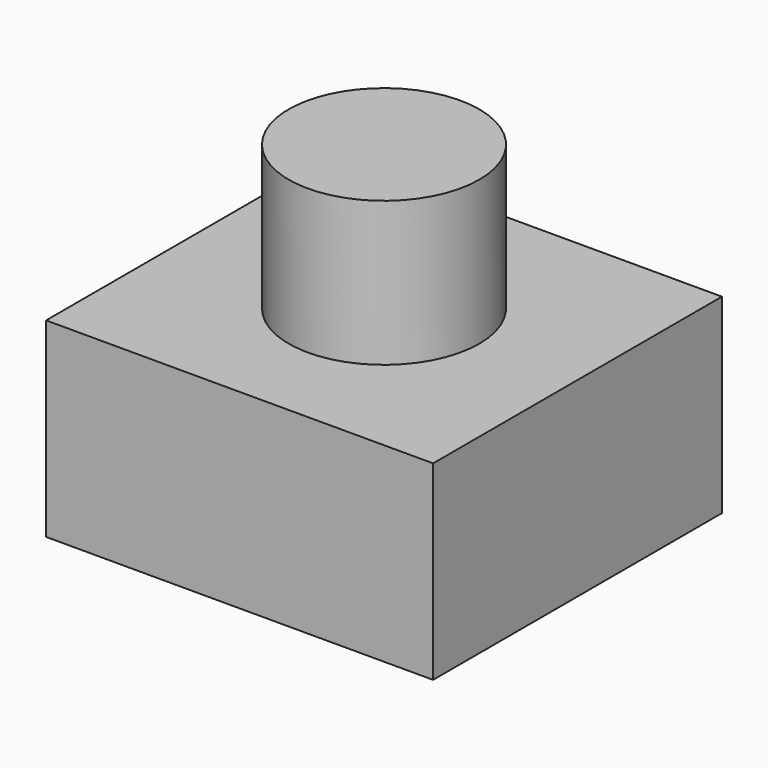
from build123d import *

# Parameters (mm, degrees)
BOX010_W          = 13.4
BOX010_H          = 12.5
BOX010_DEPTH      = 6.6
CYLINDER002_R     = 3.3
CYLINDER002_DEPTH = 5


with BuildPart() as rotary_base:
    # Box010 → Box010 (new body)
    with BuildSketch(Plane(origin=(-6.7, -6.25, -11.6), x_dir=(1, 0, 0), z_dir=(0, 0, 1))):
        with Locations((6.7, 6.25)):
            Rectangle(BOX010_W, BOX010_H)
    extrude(amount=BOX010_DEPTH)


with BuildPart() as fusion020:
    # Cylinder002 → Cylinder002 (new body)
    with BuildSketch(Plane.XY.offset(-5)):
        Circle(CYLINDER002_R)
    extrude(amount=CYLINDER002_DEPTH)

    # Fusion020: union ROTARY_base
    add(rotary_base.part)


solid = fusion020.part
